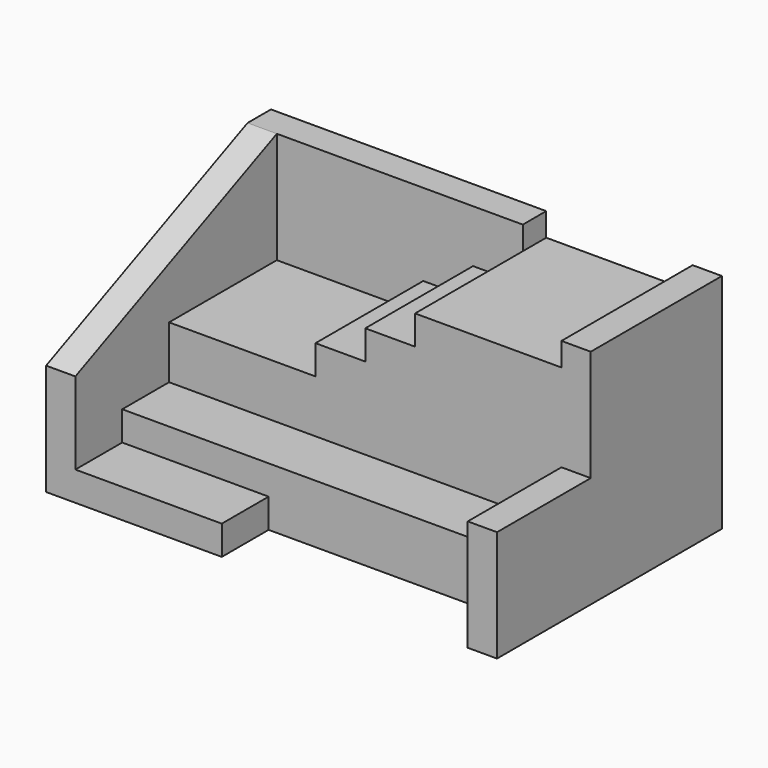
from build123d import *

# Parameters (mm, degrees)
F1_DEPTH  = 38
F3_DEPTH  = 25
F4_DEPTH  = 38
F0_W      = 5
F0_H      = 28
F5_DEPTH  = 38
F6_DEPTH  = 34
F0_W_2    = 8.5
F0_H_2    = 23
F7_DEPTH  = 29
F8_DEPTH  = 24
F0_W_3    = 25
F9_DEPTH  = 19
F10_DEPTH = 10
F0_H_3    = 10
F11_DEPTH = 5
F12_DEPTH = 19


with BuildPart() as f1:
    # F0 (on Top) → F1 (new body)
    with BuildSketch(Plane.XY):
        Polygon((-33.5, -24), (-33.5, -14), (-33.5, -4), (-33.5, 19), (-38.5, 19), (-38.5, -24), align=None)
    extrude(amount=F1_DEPTH)

    # F2 (on face) → F3 (cut)
    with BuildSketch(Plane.YZ.offset(-33.5)):
        Polygon((-24, 19), (19, 38), (-24, 38), align=None)
    extrude(amount=-F3_DEPTH, mode=Mode.SUBTRACT)

    # F0 (on Top) → F4 (join)
    with BuildSketch(Plane.XY):
        Polygon((8.5, 19), (8.5, 24), (-38.5, 24), (-38.5, 19), (-33.5, 19), (-8.5, 19), (0, 19), align=None)
    extrude(amount=F4_DEPTH)



with BuildPart() as f5:
    # F0 (on Top) → F5 (new body)
    with BuildSketch(Plane.XY):
        with Locations((36, 10)):
            Rectangle(F0_W, F0_H)
    extrude(amount=F5_DEPTH)


with BuildPart() as f1_1:
    add(f1.part)

    add(f5.part)  # F6 merges F5
    # F0 (on Top) → F6 (join)
    with BuildSketch(Plane.XY):
        Polygon((8.5, -4), (33.5, -4), (33.5, 24), (8.5, 24), (8.5, 19), align=None)
    extrude(amount=F6_DEPTH)

    # F0 (on Top) → F7 (join)
    with BuildSketch(Plane.XY):
        with Locations((4.25, 7.5)):
            Rectangle(F0_W_2, F0_H_2)
    extrude(amount=F7_DEPTH)

    # F0 (on Top) → F8 (join)
    with BuildSketch(Plane.XY):
        with Locations((-4.25, 7.5)):
            Rectangle(F0_W_2, F0_H_2)
    extrude(amount=F8_DEPTH)

    # F0 (on Top) → F9 (join)
    with BuildSketch(Plane.XY):
        with Locations((-21, 7.5)):
            Rectangle(F0_W_3, F0_H_2)
    extrude(amount=F9_DEPTH)

    # F0 (on Top) → F10 (join)
    with BuildSketch(Plane.XY):
        Polygon((-8.5, -14), (33.5, -14), (33.5, -4), (8.5, -4), (0, -4), (-8.5, -4), (-33.5, -4), (-33.5, -14), align=None)
    extrude(amount=F10_DEPTH)

    # F0 (on Top) → F11 (join)
    with BuildSketch(Plane.XY):
        with Locations((-21, -19)):
            Rectangle(F0_W_3, F0_H_3)
    extrude(amount=F11_DEPTH)

    # F0 (on Top) → F12 (join)
    with BuildSketch(Plane.XY):
        Polygon((33.5, -24), (38.5, -24), (38.5, -4), (33.5, -4), (33.5, -14), align=None)
    extrude(amount=F12_DEPTH)


solid = f1_1.part
